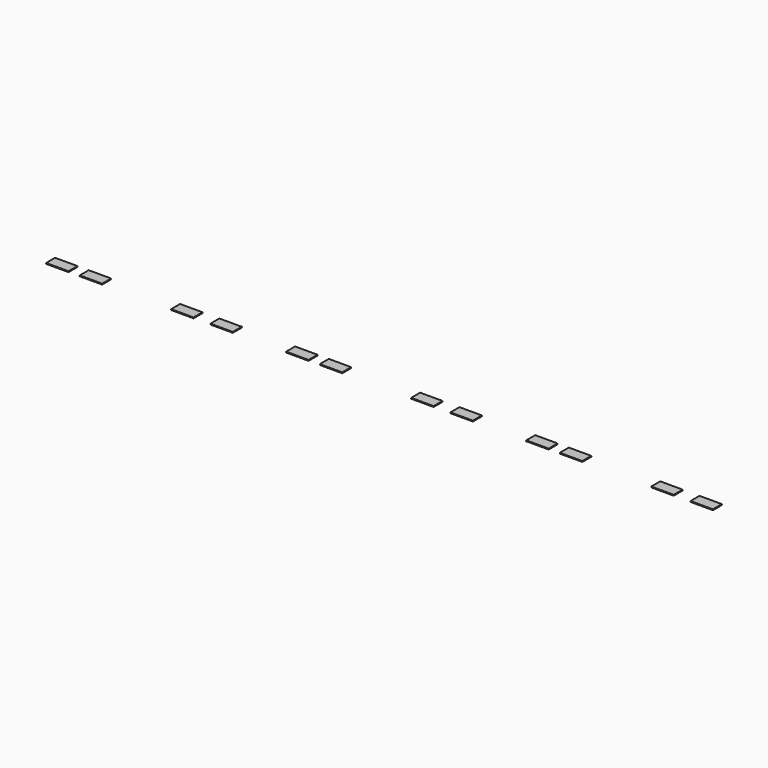
from build123d import *

# Parameters (mm, degrees)
SKETCH131_W      = 40
SKETCH131_H      = 20
PAD029_DEPTH     = 1.5
ARRAY005_X_COUNT = 2
ARRAY005_X_PITCH = 60
ARRAY007_X_COUNT = 3
ARRAY007_X_PITCH = 428.17
ARRAY004_X_COUNT = 2
ARRAY004_X_PITCH = 70
ARRAY006_X_COUNT = 3
ARRAY006_X_PITCH = 428.17


with BuildPart() as body001003005003015005:
    # Sketch131 → Pad029 (new body)
    with BuildSketch(Plane.XY):
        with Locations((0, 10)):
            Rectangle(SKETCH131_W, SKETCH131_H)
    extrude(amount=PAD029_DEPTH)


with BuildPart() as array007:
    # Array005 base: copy of Body001003005003015005
    add(body001003005003015005.part)

    # Array005 X: Array007 ×2


with BuildPart() as array007_1:
    add(array007.part)
    with Locations(*[(i * ARRAY005_X_PITCH, 0, 0) for i in range(1, ARRAY005_X_COUNT)]):
        add(array007.part)


with BuildPart() as array007_2:
    # Array005 placement: moved
    add(array007_1.part.moved(Location((70, 0, 0))))

    # Array007 X: Array007 ×3


with BuildPart() as array007_3:
    add(array007_2.part)
    with Locations(*[(i * ARRAY007_X_PITCH, 0, 0) for i in range(1, ARRAY007_X_COUNT)]):
        add(array007_2.part)


with BuildPart() as fusion:
    # Array004 base: copy of Body001003005003015005
    add(body001003005003015005.part)

    # Array004 X: Fusion ×2


with BuildPart() as fusion_1:
    add(fusion.part)
    with Locations(*[(i * ARRAY004_X_PITCH, 0, 0) for i in range(1, ARRAY004_X_COUNT)]):
        add(fusion.part)


with BuildPart() as fusion_2:
    # Array004 placement: moved
    add(fusion_1.part.moved(Location((293, 0, 0))))

    # Array006 X: Fusion ×3


with BuildPart() as fusion_3:
    add(fusion_2.part)
    with Locations(*[(i * ARRAY006_X_PITCH, 0, 0) for i in range(1, ARRAY006_X_COUNT)]):
        add(fusion_2.part)

    # Fusion: union Array007
    add(array007_3.part)


solid = fusion_3.part
